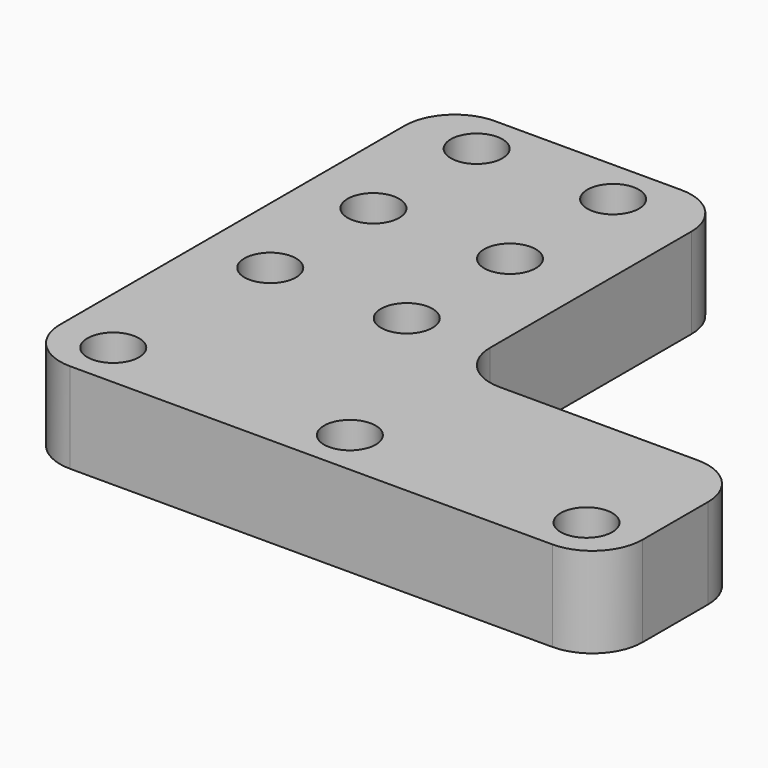
from build123d import *

# Parameters (mm, degrees)
PAD_DEPTH             = 12.6
SKETCH001_R           = 3.6
POCKET_DEPTH          = 12.601
FILLET_R              = 7
CLONE_PLACEMENT_ANGLE = 180


with BuildPart() as part:
    # Sketch → Pad (new body)
    with BuildSketch(Plane.XY):
        with BuildLine():
            Line((0, 0), (0, -74.09))
            Line((0, -74.09), (-40.005, -74.09))
            Line((-40.005, -74.09), (-40.005, -32))
            ThreePointArc((-40.005, -32), (-41.938095, -27.333095), (-46.605, -25.4))
            Line((-46.605, -25.4), (-81.28, -25.4))
            Line((-81.28, -25.4), (-81.28, 0))
            Line((-81.28, 0), (0, 0))
        make_face()
    extrude(amount=PAD_DEPTH)

    # Sketch001 (on Face9 of Pad) → Pocket (cut, through all)
    with BuildSketch(Plane.XY.offset(12.6)):
        with Locations((-73.9775, -6.35)):
            Circle(SKETCH001_R)
        with Locations((-7.9375, -6.35)):
            Circle(SKETCH001_R)
        with Locations((-40.9575, -6.35)):
            Circle(SKETCH001_R)
        with Locations((-28.575, -31.75)):
            Circle(SKETCH001_R)
        with Locations((-9.525, -31.75)):
            Circle(SKETCH001_R)
        with Locations((-28.575, -49.75)):
            Circle(SKETCH001_R)
        with Locations((-9.525, -49.75)):
            Circle(SKETCH001_R)
        with Locations((-28.575, -67.75)):
            Circle(SKETCH001_R)
        with Locations((-9.525, -67.75)):
            Circle(SKETCH001_R)
    extrude(amount=-POCKET_DEPTH, mode=Mode.SUBTRACT)

    # Fillet
    fillet_edges = [part.edges().sort_by_distance(p)[0] for p in [
        (0, 0, 6.3),
        (-81.28, 0, 6.3),
        (-81.28, -25.4, 6.3),
        (-40.005, -74.09, 6.3),
        (0, -74.09, 6.3),
    ]]
    fillet(fillet_edges, radius=FILLET_R)


with BuildPart() as part_1:
    # Clone placement: moved
    add(part.part.moved(Location((0, 0, -12.6))).rotate(Axis((0, 0, -12.6), (0, 0, 1)), CLONE_PLACEMENT_ANGLE))


solid = part_1.part
